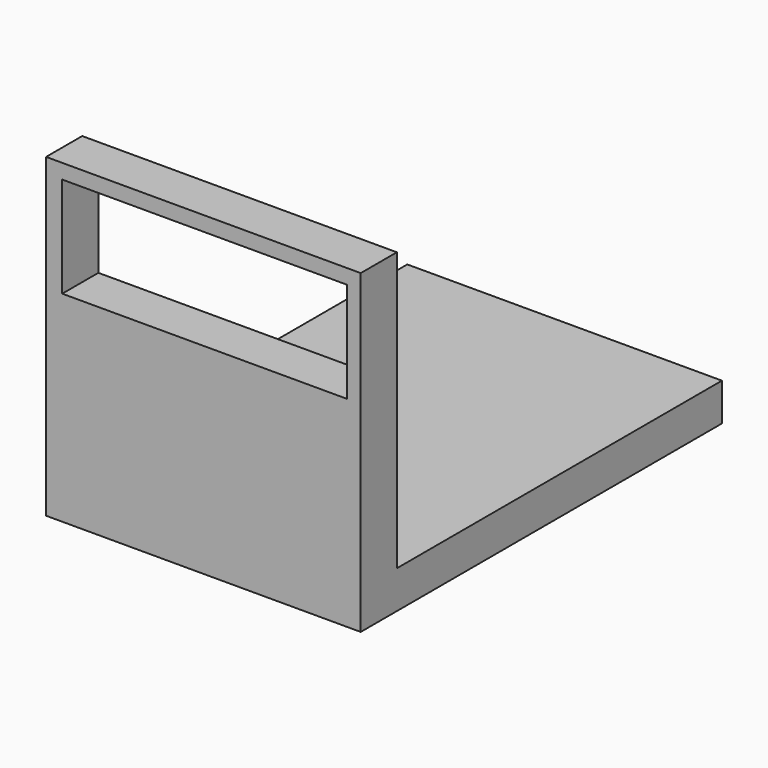
from build123d import *

# Parameters (mm, degrees)
F0_W     = 69.685258
F0_H     = 69.96853
F1_DEPTH = 100
F2_W     = 69.685258
F2_H     = 61.617006
F3_DEPTH = 90
F4_W     = 63.10162
F4_H     = 22.249703
F5_DEPTH = 25


with BuildPart() as f1:
    # F0 (on Front) → F1 (new body)
    with BuildSketch(Plane.XZ):
        Rectangle(F0_W, F0_H)
    extrude(amount=F1_DEPTH)

    # F2 (on face) → F3 (cut)
    with BuildSketch(Plane(origin=(0, 0, 0), x_dir=(-1, 0, 0), z_dir=(0, 1, 0))):
        with Locations((0, 4.175762)):
            Rectangle(F2_W, F2_H)
    extrude(amount=-F3_DEPTH, mode=Mode.SUBTRACT)

    # F4 (on face) → F5 (cut)
    with BuildSketch(Plane.XZ.offset(100)):
        with Locations((0.287328, 20.602283)):
            Rectangle(F4_W, F4_H)
    extrude(amount=-F5_DEPTH, mode=Mode.SUBTRACT)


solid = f1.part
